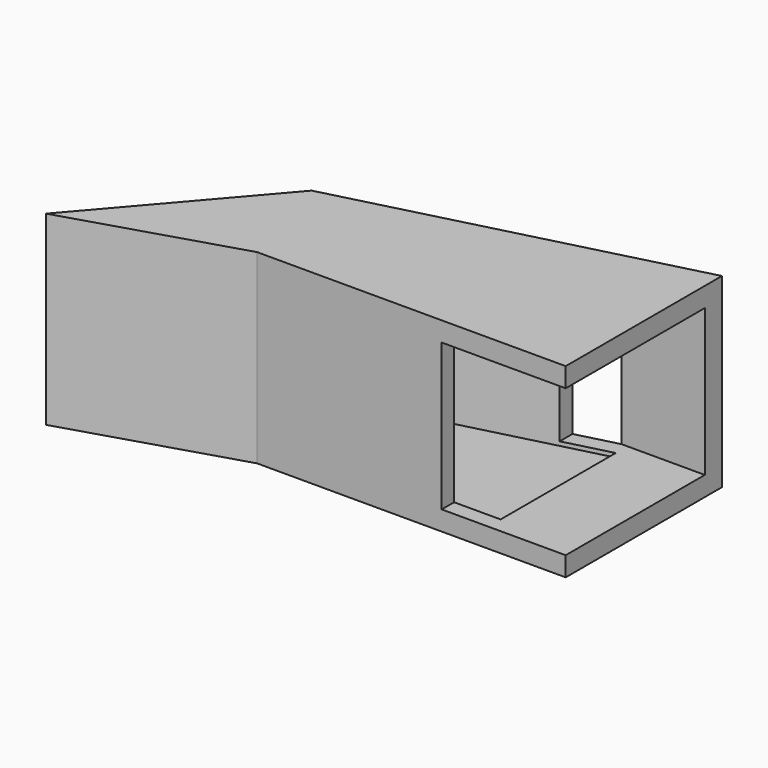
from build123d import *

# Parameters (mm, degrees)
F0_W     = 77.1000012755
F0_H     = 39.9000020698
F1_DEPTH = 30
F3_DEPTH = 30.001
F4_W     = 28.0499991495
F4_H     = 23.7000000197
F5_DEPTH = 10
F6_T     = -2.5
F7_DEPTH = 10


with BuildPart() as f1:
    # F0 (on Top) → F1 (new body)
    with BuildSketch(Plane.XY):
        with Locations((-9.7500011325, 9.3000004999)):
            Rectangle(F0_W, F0_H)
    extrude(amount=F1_DEPTH)

    # F2 (on face) → F3 (cut, through all)
    with BuildSketch(Plane.XY.offset(30)):
        Polygon((-48.3000017703, 29.2500015348), (-48.3000017703, -10.650000535), (-26.1000003666, 15.1500003412), (28.7999995053, 29.2500015348), align=None)
        Polygon((-21.0000015795, -2.250000136), (-48.3000017703, -10.650000535), (28.7999995053, -10.650000535), (28.7999995053, -2.250000136), align=None)
    extrude(amount=-F3_DEPTH, mode=Mode.SUBTRACT)

    # F4 (on face) → F5 (cut)
    with BuildSketch(Plane.YZ.offset(28.7999995053)):
        with Locations((11.7749994388, 15.000000014)):
            Rectangle(F4_W, F4_H)
    extrude(amount=-F5_DEPTH, mode=Mode.SUBTRACT)

    # F6 (hollow: no face is removed)
    offset(amount=F6_T, kind=Kind.INTERSECTION, mode=Mode.SUBTRACT)

    # F7 (cut): a face of the model
    f7_faces = [f1.faces().sort_by_distance(p)[0] for p in [
        (18.7999995053, 11.7749994388, 15.000000014),
    ]]
    extrude(f7_faces, amount=-F7_DEPTH, mode=Mode.SUBTRACT)


solid = f1.part
